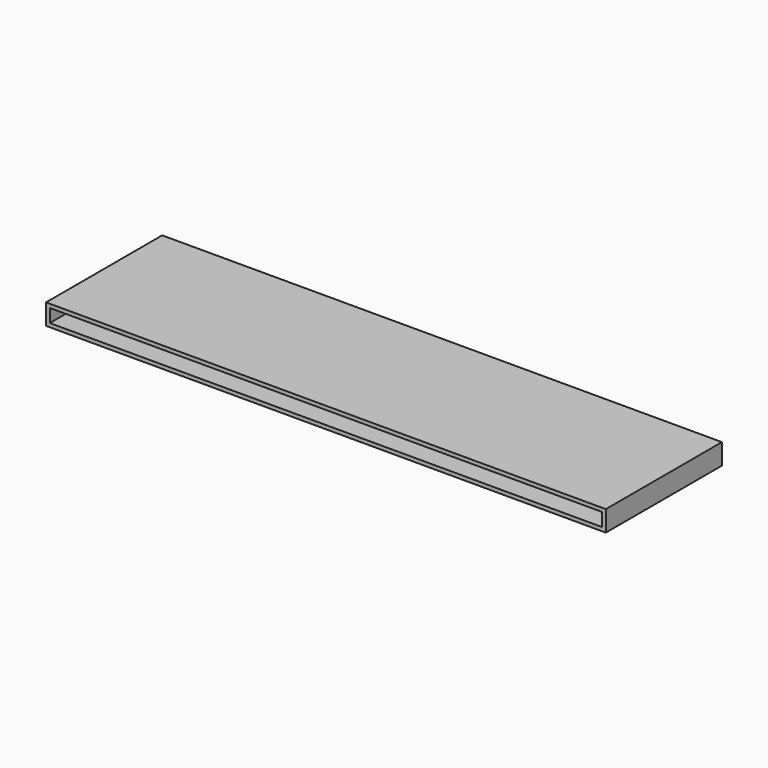
from build123d import *

# Parameters (mm, degrees)
F0_W     = 2700
F0_H     = 100
F0_W_2   = 2664
F0_H_2   = 64
F1_DEPTH = 350
F2_R     = 12.5
F3_DEPTH = 5


with BuildPart() as f1:
    # F0 (on Front) → F1 (new body, symmetric)
    with BuildSketch(Plane.XZ):
        with Locations((0, 50)):
            Rectangle(F0_W, F0_H)
        with Locations((0, 50)):
            Rectangle(F0_W_2, F0_H_2, mode=Mode.SUBTRACT)
    extrude(amount=F1_DEPTH, both=True)

    # F2 (on face) → F3 (cut)
    with BuildSketch(Plane(origin=(0, 0, 0), x_dir=(1, 0, 0), z_dir=(0, 0, -1))):
        with Locations((-450, 330)):
            Circle(F2_R)
        with Locations((-450, -330)):
            Circle(F2_R)
        with Locations((1150, 330)):
            Circle(F2_R)
        with Locations((1150, -330)):
            Circle(F2_R)
    extrude(amount=-F3_DEPTH, mode=Mode.SUBTRACT)


solid = f1.part
